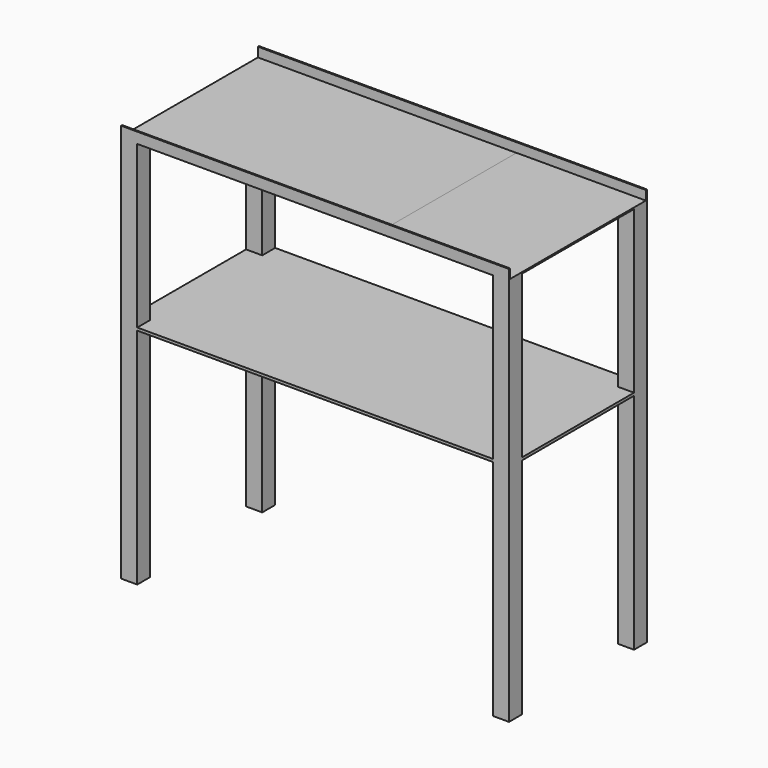
from build123d import *

# Parameters (mm, degrees)
F0_W      = 914.4
F0_H      = 25.4
F1_DEPTH  = 203.2
F2_T      = -3.175
F3_W      = 38.1
F3_H      = 38.1
F4_DEPTH  = 914.4
F5_W      = 406.4
F5_H      = 6.35
F6_DEPTH  = 914.4
F7_DEPTH  = 25.4
F8_DEPTH  = 25.4
F9_W      = 304.8
F9_H      = 400.05
F10_DEPTH = 0.254


with BuildPart() as f1:
    # F0 (on Front) → F1 (new body, symmetric)
    with BuildSketch(Plane.XZ):
        with Locations((5.9522092342, 25.7644668688)):
            Rectangle(F0_W, F0_H)
    extrude(amount=F1_DEPTH, both=True)

    # F2
    f2_openings = [f1.faces().sort_by_distance(p)[0] for p in [
        (5.952209, 0, 38.464467),
    ]]
    offset(amount=F2_T, openings=f2_openings)

    # F3 (on face) → F4 (join)
    with BuildSketch(Plane(origin=(0, 0, 13.0644668688), x_dir=(1, 0, 0), z_dir=(0, 0, -1))):
        with Locations((444.1022092342, 184.15)):
            Rectangle(F3_W, F3_H)
        with Locations((444.1022092342, -184.15)):
            Rectangle(F3_W, F3_H)
        with Locations((-432.1977907658, 184.15)):
            Rectangle(F3_W, F3_H)
        with Locations((-432.1977907658, -184.15)):
            Rectangle(F3_W, F3_H)
    extrude(amount=F4_DEPTH)

    # F5 (on face) → F6 (join, through all)
    with BuildSketch(Plane.YZ.offset(463.1522092342)):
        with Locations((0, -371.1105331312)):
            Rectangle(F5_W, F5_H)
    extrude(amount=-F6_DEPTH)

    # F7 (cut): a face of the model
    f7_faces = [f1.faces().sort_by_distance(p)[0] for p in [
        (-448.0727907658, 0, 27.3519668688),
    ]]
    extrude(f7_faces, amount=-F7_DEPTH, mode=Mode.SUBTRACT)

    # F8 (cut): a face of the model
    f8_faces = [f1.faces().sort_by_distance(p)[0] for p in [
        (459.9772092342, 0, 27.3519668688),
    ]]
    extrude(f8_faces, amount=-F8_DEPTH, mode=Mode.SUBTRACT)

    # F9 (on face) → F10 (join)
    with BuildSketch(Plane.XY.offset(16.2394668688)):
        with Locations((310.7522092342, 0)):
            Rectangle(F9_W, F9_H)
    extrude(amount=F10_DEPTH)


solid = f1.part
